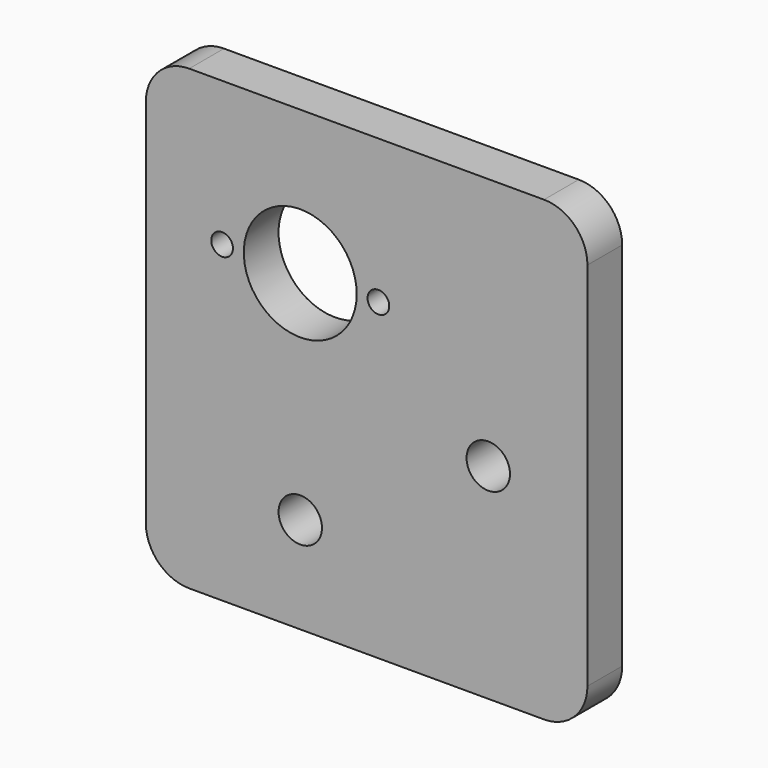
from build123d import *

# Parameters (mm, degrees)
F0_W     = 20.3405842327
F0_H     = 21.0761930935
F0_R     = 1
F0_R_2   = 0.5
F1_DEPTH = 2
F2_R     = 2


with BuildPart() as f1:
    # F0 (on Front) → F1 (new body)
    with BuildSketch(Plane.XZ):
        with Locations((3.0572951424, -3.9020577932)):
            Rectangle(F0_W, F0_H)
        with Locations((0, -10)):
            Circle(F0_R, mode=Mode.SUBTRACT)
        with Locations((8.6602540378, -5)):
            Circle(F0_R, mode=Mode.SUBTRACT)
        with Locations((-3.6, 0)):
            Circle(F0_R_2, mode=Mode.SUBTRACT)
        with BuildLine():
            ThreePointArc((-2.6, 0), (0, 2.6), (2.6, 0))
            ThreePointArc((2.6, 0), (0, -2.6), (-2.6, 0))
        make_face(mode=Mode.SUBTRACT)
        with BuildLine():
            ThreePointArc((4.1, 0), (3.6, -0.5), (3.1, 0))
            ThreePointArc((3.1, 0), (3.6, 0.5), (4.1, 0))
        make_face(mode=Mode.SUBTRACT)
    extrude(amount=F1_DEPTH)

    # F2
    f2_edges = [f1.edges().sort_by_distance(p)[0] for p in [
        (-7.112997, -1, 6.636039),
        (13.227587, -1, 6.636039),
        (13.227587, -1, -14.440154),
        (-7.112997, -1, -14.440154),
    ]]
    fillet(f2_edges, radius=F2_R)


solid = f1.part
